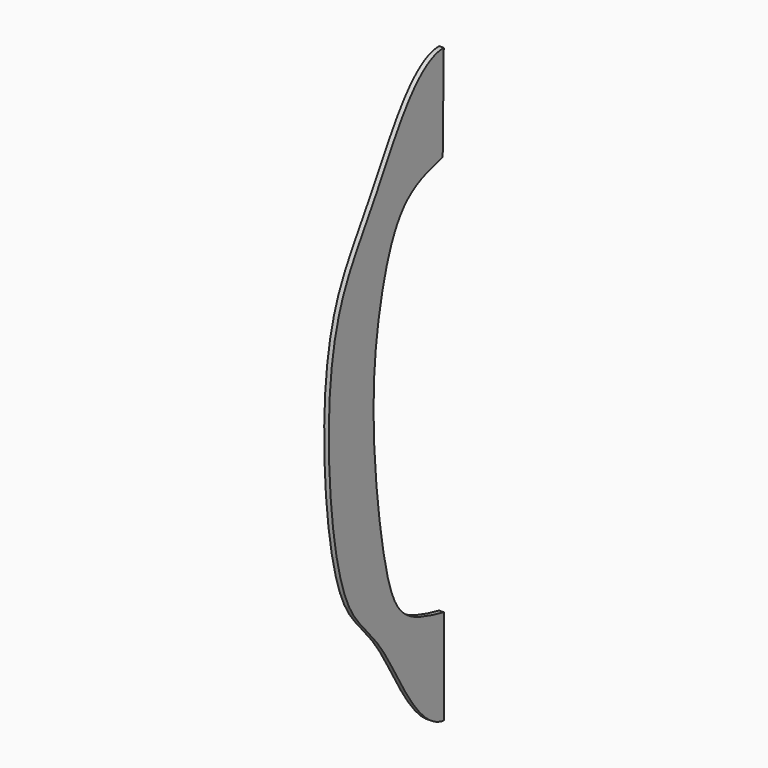
from build123d import *

# Parameters (mm, degrees)
F1_DEPTH = 3.175


with BuildPart() as f1:
    # F0 (on Right) → F1 (new body)
    with BuildSketch(Plane.YZ):
        with BuildLine():
            add(Edge.make_bspline(
                [(-0.9131160914, 137.632265687), (-0.6087440609, 142.5548437913), (-0.3043720305, 198.2774218957), (0, 203.2)],
                knots=[0, 0, 0, 0, 65.5740921701, 65.5740921701, 65.5740921701, 65.5740921701], degree=3))
            add(Edge.make_bspline(
                [(0, 203.2), (-23.1950548692, 203.2280341285), (-56.551622861, 136.0214613341), (-93.4085531615, 87.0302231178), (-102.5103501528, 1.7107616957), (-89.1386581001, -106.9672800426), (-49.8540469611, -131.7006473783), (-22.1051500943, -200.598799392), (0, -203.2)],
                knots=[0, 0, 0, 0, 0.1729324998, 0.3274884695, 0.5026705789, 0.6948488862, 0.8278216788, 1, 1, 1, 1], degree=3))
            add(Edge.make_bspline(
                [(0, -137.7332061529), (0, -159.5554707686), (0, -181.3777353843), (0, -203.2)],
                knots=[0, 0, 0, 0, 65.4667938471, 65.4667938471, 65.4667938471, 65.4667938471], degree=3))
            add(Edge.make_bspline(
                [(-0.9131160914, 137.632265687), (-12.2791136867, 134.5958543466), (-37.736717649, 127.7948888597), (-56.5404835056, 71.3927392638), (-63.3934883439, 1.7021225659), (-52.0810327757, -91.7106311146), (-37.0723440116, -129.4273173153), (-12.2777532944, -134.9824317749), (0, -137.7332061529)],
                knots=[0, 0, 0, 0, 0.1352461836, 0.3029249083, 0.5020609615, 0.7252497652, 0.8639495349, 1, 1, 1, 1], degree=3))
        make_face()
    extrude(amount=F1_DEPTH)


solid = f1.part
